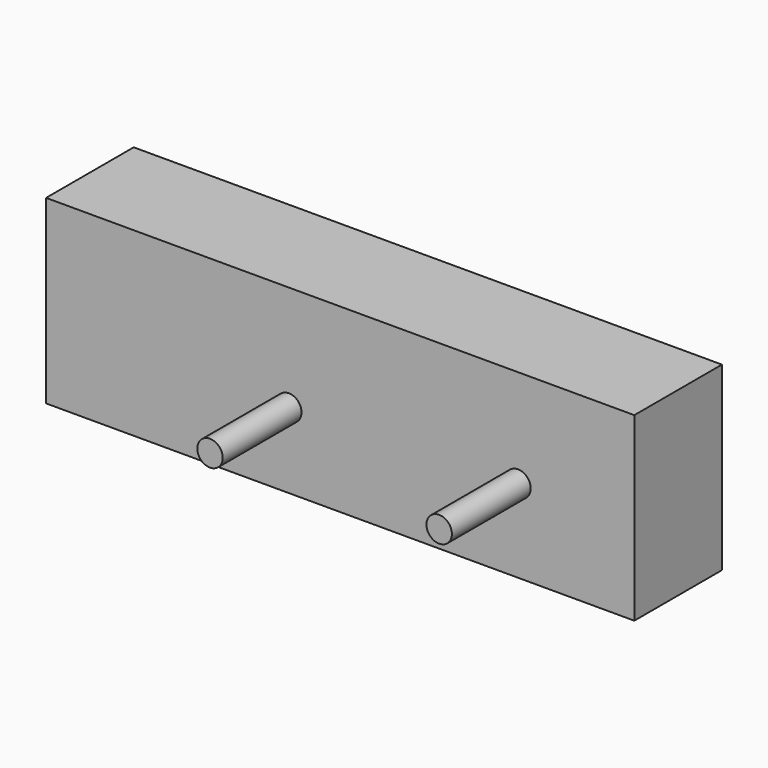
from build123d import *

# Parameters (mm, degrees)
F0_W     = 65.1499927044
F0_H     = 41.9776812196
F1_DEPTH = 25.4
F2_R     = 2.95
F3_DEPTH = 22.86
F4_DEPTH = 71.30122


with BuildPart() as f1:
    # F0 (on Front) → F1 (new body)
    with BuildSketch(Plane.XZ):
        with Locations((32.5749963522, 20.9888406098)):
            Rectangle(F0_W, F0_H)
    extrude(amount=F1_DEPTH)

    # F2 (on face) → F3, piece 2 (join)
    with BuildSketch(Plane.XZ.offset(25.4)):
        with Locations((38.1691530347, 19.1963799298)):
            Circle(F2_R)
    extrude(amount=F3_DEPTH)

    # F4 (add): a face of the model
    f4_faces = [f1.faces().sort_by_distance(p)[0] for p in [
        (0, -12.7, 20.9888406098),
    ]]


with BuildPart() as f3:
    # F2 (on face) → F3 (new body)
    with BuildSketch(Plane.XZ.offset(25.4)):
        with Locations((-14.9930469653, 17.4420047551)):
            Circle(F2_R)
    extrude(amount=F3_DEPTH)


with BuildPart() as f1_1:
    add(f1.part)

    add(f3.part)  # F4 merges F3
    extrude(f4_faces, amount=F4_DEPTH)


solid = f1_1.part
